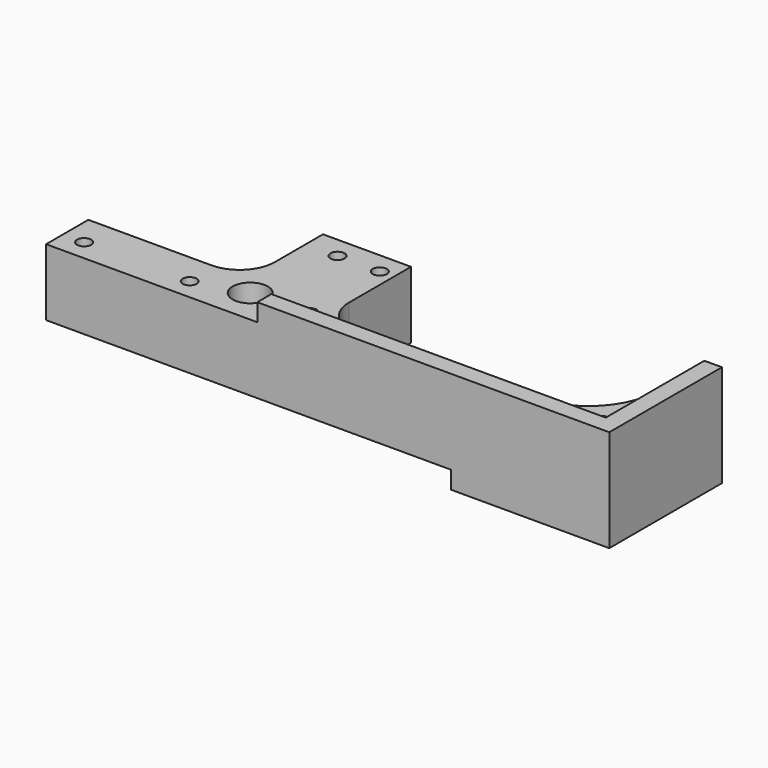
from build123d import *

# Parameters (mm, degrees)
PAD004_DEPTH    = 29
POCKET001_DEPTH = 5
POCKET002_DEPTH = 5
SKETCH008_R     = 5
POCKET003_DEPTH = 10
SKETCH015_R     = 2
POCKET007_DEPTH = 24.001


with BuildPart() as obj1:
    # Sketch004 → Pad004 (new body)
    with BuildSketch(Plane.XY):
        with BuildLine():
            Line((0, 40), (0, 0))
            Line((0, 0), (160, 0))
            Line((160, 15), (160, 0))
            Line((125, 15), (160, 15))
            ThreePointArc((115, 25), (117.928932, 17.928932), (125, 15))
            Line((115, 42.094566), (115, 25))
            Line((90, 42.094566), (115, 42.094566))
            Line((90, 42.094566), (90, 20))
            ThreePointArc((80, 10), (87.071068, 12.928932), (90, 20))
            Line((30, 10), (80, 10))
            ThreePointArc((10, 30), (15.857864, 15.857864), (30, 10))
            Line((10, 40), (10, 30))
            Line((0, 40), (10, 40))
        make_face()
    extrude(amount=PAD004_DEPTH)

    # Sketch006 (on Face15 of Pad004) → Pocket001 (cut)
    with BuildSketch(Plane.XY.offset(29)):
        Polygon((5, 45), (5, 5), (100, 5), (100, -8.029739), (275.374889, -8.029739), (275.374889, 45), align=None)
    extrude(amount=-POCKET001_DEPTH, mode=Mode.SUBTRACT)

    # Sketch007 (on Face2 of Pocket001) → Pocket002 (cut)
    with BuildSketch(Plane(origin=(0, 0, 0), x_dir=(1, 0, 0), z_dir=(0, 0, -1))):
        Polygon((5, -5), (5, -45), (160, -45), (160, 8.546066), (45, 8.546066), (45, -5), align=None)
    extrude(amount=-POCKET002_DEPTH, mode=Mode.SUBTRACT)

    # Sketch008 (on Face4 of Pocket002) → Pocket003 (cut)
    with BuildSketch(Plane.XY.offset(24)):
        with Locations((110, 10)):
            Circle(SKETCH008_R)
    extrude(amount=-POCKET003_DEPTH, mode=Mode.SUBTRACT)

    # Sketch015 (on Face4 of Pocket003) → Pocket007 (cut, through all)
    with BuildSketch(Plane.XY.offset(24)):
        with Locations((11, 11)):
            Circle(SKETCH015_R)
        with Locations((94, 11)):
            Circle(SKETCH015_R)
        with Locations((94, 36)):
            Circle(SKETCH015_R)
        with Locations((106, 36)):
            Circle(SKETCH015_R)
        with Locations((124, 6)):
            Circle(SKETCH015_R)
        with Locations((154, 6)):
            Circle(SKETCH015_R)
    extrude(amount=-POCKET007_DEPTH, mode=Mode.SUBTRACT)


with BuildPart() as obj1_1:
    # Body004 placement: moved
    add(obj1.part.moved(Location((-250, -150, 0))))


with BuildPart() as obj2:
    # Part__Mirroring001: instance of obj1
    add(obj1_1.part.mirror(Plane(origin=(0, 0, 0), x_dir=(0, -1, 0), z_dir=(1, 0, 0))))


solid = obj2.part
